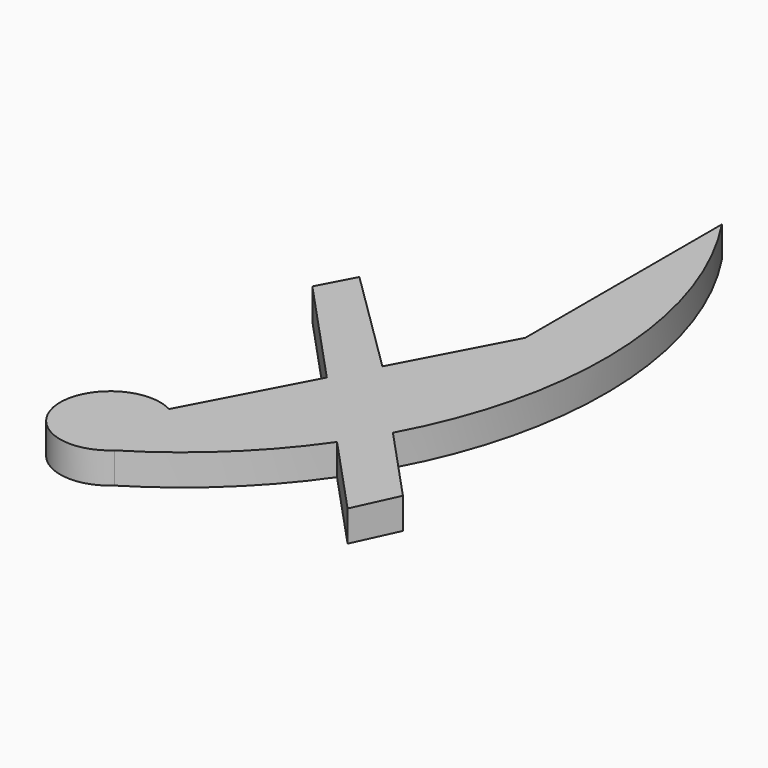
from build123d import *

# Parameters (mm, degrees)
F1_DEPTH = 1.651


with BuildPart() as f1:
    # F0 (on Top) → F1 (new body)
    with BuildSketch(Plane.XY):
        with BuildLine():
            Line((4.59638, 8.672929), (1.249473, 2.357636))
            ThreePointArc((1.249473, 2.357636), (-2.647269, -0.334054), (1.79599, -1.973334))
            ThreePointArc((1.79599, -1.973334), (5.508199, 0.863394), (8.555343, 4.404925))
            Line((8.555343, 4.404925), (12.641312, 0))
            Line((12.641312, 0), (13.720743, 2.33507))
            Line((13.720743, 2.33507), (9.849894, 6.508082))
            ThreePointArc((9.849894, 6.508082), (12.551418, 18.254974), (8.809251, 29.712891))
            Line((8.809251, 29.712891), (8.809251, 16.622214))
            Line((8.809251, 16.622214), (5.776415, 10.899542))
            Line((5.776415, 10.899542), (0, 16.588087))
            Line((0, 16.588087), (-0.998318, 14.704356))
            Line((-0.998318, 14.704356), (4.59638, 8.672929))
        make_face()
    extrude(amount=F1_DEPTH)


solid = f1.part
